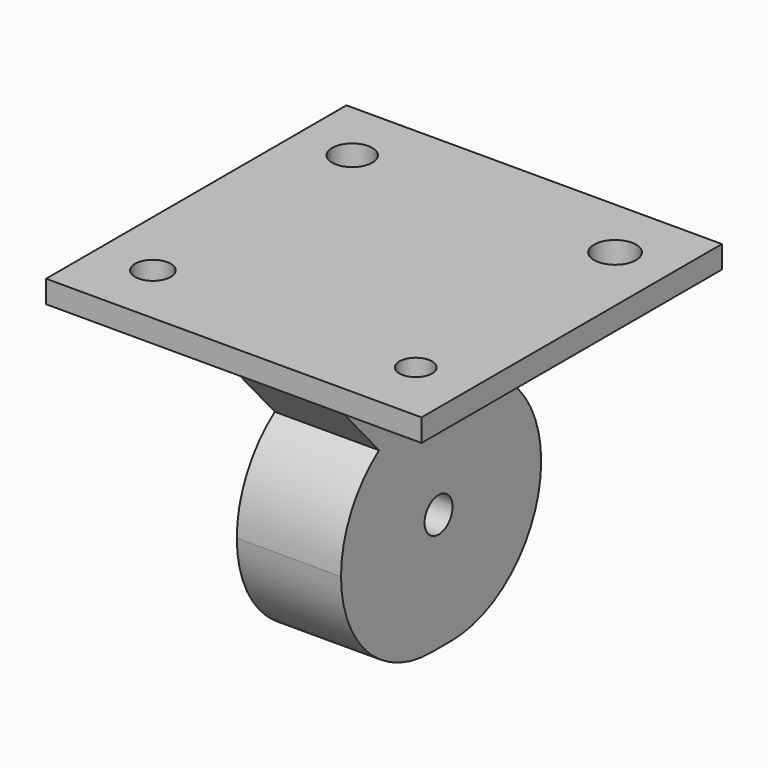
from build123d import *

# Parameters (mm, degrees)
SKETCH_W        = 50
SKETCH_H        = 50
SKETCH_R        = 2.673206
SKETCH_R_2      = 2.795993
SKETCH_R_3      = 2.184497
SKETCH_R_4      = 2.376808
PAD_DEPTH       = 3
SKETCH001_W     = 13.880783
SKETCH001_H     = 33.313887
PAD001_DEPTH    = 40
FILLET_R        = 15
POCKET_DEPTH    = 31.618891
SKETCH003_R     = 2.326985
POCKET001_DEPTH = 32.263892


with BuildPart() as part:
    # Sketch → Pad (new body)
    with BuildSketch(Plane.XY):
        Rectangle(SKETCH_W, SKETCH_H)
        with Locations((-17.5, 16.5883488719)):
            Circle(SKETCH_R, mode=Mode.SUBTRACT)
        with Locations((17.5, 16.588348)):
            Circle(SKETCH_R_2, mode=Mode.SUBTRACT)
        with Locations((17.5, -16.5883488719)):
            Circle(SKETCH_R_3, mode=Mode.SUBTRACT)
        with Locations((-17.5, -16.5883488719)):
            Circle(SKETCH_R_4, mode=Mode.SUBTRACT)
    extrude(amount=PAD_DEPTH)

    # Sketch001 (on Face9 of Pad) → Pad001 (join)
    with BuildSketch(Plane(origin=(0, 0, 0), x_dir=(1, 0, 0), z_dir=(0, 0, -1))):
        with Locations((0.3225005, -0.4243995)):
            Rectangle(SKETCH001_W, SKETCH001_H)
    extrude(amount=PAD001_DEPTH)

    # Fillet
    fillet_edges = [part.edges().sort_by_distance(p)[0] for p in [
        (0.3225, -16.232544, -40),
        (0.322501, 17.081343, -40),
    ]]
    fillet(fillet_edges, radius=FILLET_R)

    # Sketch002 (on Face1 of Fillet) → Pocket (cut, through all)
    with BuildSketch(Plane(origin=(-6.617891, 0, 0), x_dir=(0, -1, 0), z_dir=(-1, 0, 0))):
        with BuildLine():
            ThreePointArc((16.232544, -25), (14.5567914087, -18.1105565543), (9.9039532011, -12.7604468028))
            Line((9.9039532011, -12.7604468028), (16.232544, -5.5931115513))
            Line((16.232544, -5.5931115513), (16.232544, -25))
        make_face()
        with BuildLine():
            ThreePointArc((-10.7527522011, -12.7604468028), (-15.4055904087, -18.1105565543), (-17.081343, -25))
            Line((-17.081343, -5.5931115513), (-17.081343, -25))
            Line((-10.7527522011, -12.7604468028), (-17.081343, -5.5931115513))
        make_face()
    extrude(amount=-POCKET_DEPTH, mode=Mode.SUBTRACT)

    # Sketch003 (on Face18 of Pocket) → Pocket001 (cut, through all)
    with BuildSketch(Plane.YZ.offset(7.262892)):
        with Locations((0, -24.346371)):
            Circle(SKETCH003_R)
    extrude(amount=-POCKET001_DEPTH, mode=Mode.SUBTRACT)


solid = part.part
